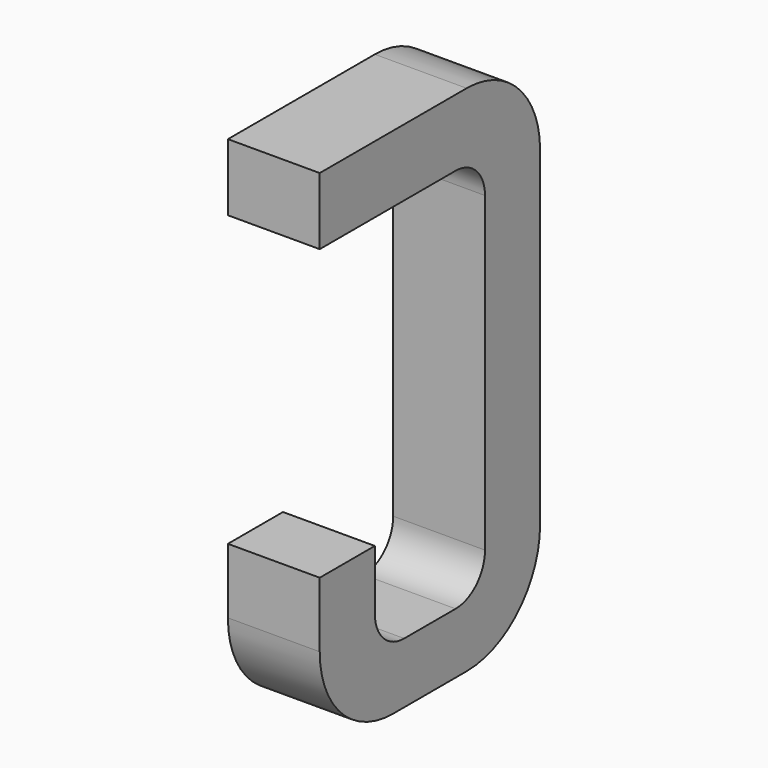
from build123d import *

# Parameters (mm, degrees)
BOX151_W     = 0.5
BOX151_H     = 1.5
BOX151_DEPTH = 2.795
FILLET346_R  = 0.5
FILLET360_R  = 0.5
FILLET356_R  = 0.5
BOX150_W     = 0.75
BOX150_H     = 2.1
BOX150_DEPTH = 1
FILLET355_R  = 0.2
FILLET351_R  = 0.2
FILLET354_R  = 0.2
FILLET352_R  = 0.2
BOX154_W     = 1
BOX154_H     = 1.575
BOX154_DEPTH = 3


with BuildPart() as part:
    # Box151 → Box151 (join)
    with BuildSketch(Plane(origin=(-0.25, 11.125, 0), x_dir=(1, 0, 0), z_dir=(0, 0, 1))):
        with Locations((0.25, 0.75)):
            Rectangle(BOX151_W, BOX151_H)
    extrude(amount=BOX151_DEPTH)

    # Fillet346
    fillet346_edges = [part.edges().sort_by_distance(p)[0] for p in [
        (0, 12.625, 0),
    ]]
    fillet(fillet346_edges, radius=FILLET346_R)

    # Fillet360
    fillet360_edges = [part.edges().sort_by_distance(p)[0] for p in [
        (0, 12.625, 2.795),
    ]]
    fillet(fillet360_edges, radius=FILLET360_R)

    # Fillet356
    fillet356_edges = [part.edges().sort_by_distance(p)[0] for p in [
        (0, 11.125, 0),
    ]]
    fillet(fillet356_edges, radius=FILLET356_R)

    # Box150 → Box150 (cut)
    with BuildSketch(Plane(origin=(-0.5, 11.5, 0.33), x_dir=(0, 1, 0), z_dir=(1, 0, 0))):
        with Locations((0.375, 1.05)):
            Rectangle(BOX150_W, BOX150_H)
    extrude(amount=BOX150_DEPTH, mode=Mode.SUBTRACT)

    # Fillet355
    fillet355_edges = [part.edges().sort_by_distance(p)[0] for p in [
        (0, 11.5, 0.33),
    ]]
    fillet(fillet355_edges, radius=FILLET355_R)

    # Fillet351
    fillet351_edges = [part.edges().sort_by_distance(p)[0] for p in [
        (0, 12.25, 0.33),
    ]]
    fillet(fillet351_edges, radius=FILLET351_R)

    # Fillet354
    fillet354_edges = [part.edges().sort_by_distance(p)[0] for p in [
        (0, 11.5, 2.43),
    ]]
    fillet(fillet354_edges, radius=FILLET354_R)

    # Fillet352
    fillet352_edges = [part.edges().sort_by_distance(p)[0] for p in [
        (0, 12.25, 2.43),
    ]]
    fillet(fillet352_edges, radius=FILLET352_R)

    # Box154 → Box154 (cut)
    with BuildSketch(Plane(origin=(-1, 11, 0.855), x_dir=(0, 1, 0), z_dir=(1, 0, 0))):
        with Locations((0.5, 0.7875)):
            Rectangle(BOX154_W, BOX154_H)
    extrude(amount=BOX154_DEPTH, mode=Mode.SUBTRACT)


with BuildPart() as part_1:
    # Body051 placement: moved
    add(part.part.moved(Location((10.16, 0, 0))))


solid = part_1.part
